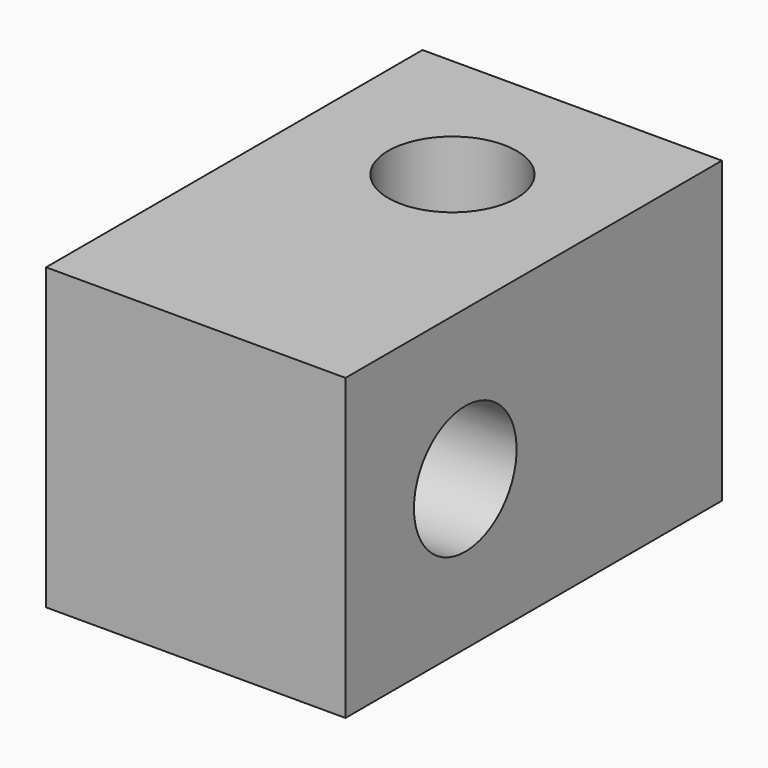
from build123d import *

# Parameters (mm, degrees)
F0_W     = 7
F0_H     = 11
F1_DEPTH = 7
F2_R     = 1.5
F3_DEPTH = 7.001
F4_R     = 1.5
F5_DEPTH = 25


with BuildPart() as f1:
    # F0 (on Top) → F1 (new body)
    with BuildSketch(Plane.XY):
        Rectangle(F0_W, F0_H)
    extrude(amount=F1_DEPTH)

    # F2 (on face) → F3 (cut, through all)
    with BuildSketch(Plane.XY.offset(7)):
        with Locations((0, 2)):
            Circle(F2_R)
    extrude(amount=-F3_DEPTH, mode=Mode.SUBTRACT)

    # F4 (on face) → F5 (cut)
    with BuildSketch(Plane(origin=(-3.5, 0, 0), x_dir=(0, -1, 0), z_dir=(-1, 0, 0))):
        with Locations((2, 3.5)):
            Circle(F4_R)
    extrude(amount=-F5_DEPTH, mode=Mode.SUBTRACT)


solid = f1.part
